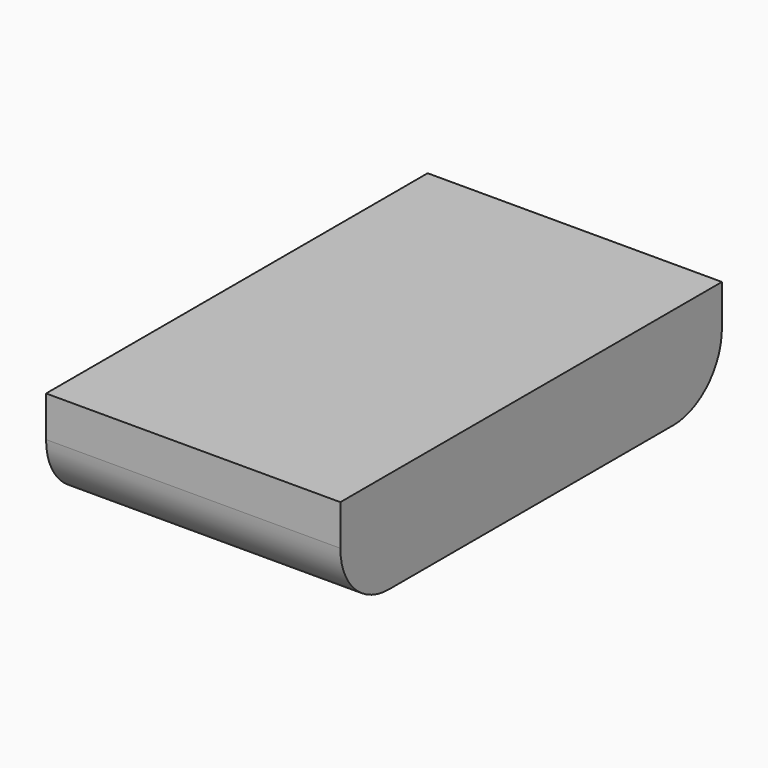
from build123d import *

# Parameters (mm, degrees)
SKETCH_W    = 29
SKETCH_H    = 47
PAD_DEPTH   = 10
FILLET_R    = 6
FILLET001_R = 6


with BuildPart() as part:
    # Sketch → Pad (new body)
    with BuildSketch(Plane.XY):
        Rectangle(SKETCH_W, SKETCH_H)
    extrude(amount=PAD_DEPTH)

    # Fillet
    fillet_edges = [part.edges().sort_by_distance(p)[0] for p in [
        (0, -23.5, 0),
    ]]
    fillet(fillet_edges, radius=FILLET_R)

    # Fillet001
    fillet001_edges = [part.edges().sort_by_distance(p)[0] for p in [
        (0, 23.5, 0),
    ]]
    fillet(fillet001_edges, radius=FILLET001_R)


solid = part.part
